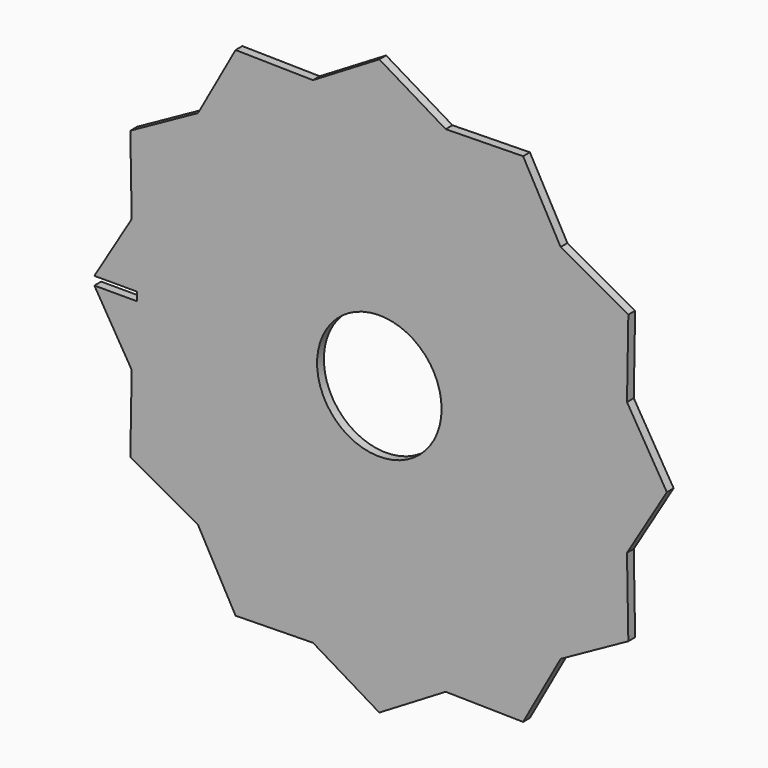
from build123d import *

# Parameters (mm, degrees)
F0_R     = 22
F1_DEPTH = 3
F2_DEPTH = 3
F4_DEPTH = 25


with BuildPart() as f1:
    # F0 (on Front) → F1 (new body)
    with BuildSketch(Plane.XZ):
        Polygon((0, 101.624342229), (-23.4537052032, 87.530419444), (-50.8121711145, 88.0092620132), (-64.0767142408, 64.0767142408), (-88.0092620132, 50.8121711145), (-87.530419444, 23.4537052032), (-101.624342229, 0), (-87.530419444, -23.4537052032), (-88.0092620132, -50.8121711145), (-64.0767142408, -64.0767142409), (-50.8121711145, -88.0092620132), (-23.4537052032, -87.530419444), (0, -101.624342229), (23.4537052032, -87.530419444), (50.8121711145, -88.0092620132), (64.0767142409, -64.0767142408), (88.0092620132, -50.8121711145), (87.530419444, -23.4537052032), (101.624342229, 0), (87.530419444, 23.4537052032), (88.0092620132, 50.8121711145), (64.0767142408, 64.0767142408), (50.8121711145, 88.0092620132), (23.4537052032, 87.530419444), align=None)
        Circle(F0_R, mode=Mode.SUBTRACT)
    extrude(amount=F1_DEPTH)

    # F0 (on Front) → F2 (join)
    with BuildSketch(Plane.XZ):
        Polygon((0, 101.624342229), (-23.4537052032, 87.530419444), (-50.8121711145, 88.0092620132), (-64.0767142408, 64.0767142408), (-88.0092620132, 50.8121711145), (-87.530419444, 23.4537052032), (-101.624342229, 0), (-87.530419444, -23.4537052032), (-88.0092620132, -50.8121711145), (-64.0767142408, -64.0767142409), (-50.8121711145, -88.0092620132), (-23.4537052032, -87.530419444), (0, -101.624342229), (23.4537052032, -87.530419444), (50.8121711145, -88.0092620132), (64.0767142409, -64.0767142408), (88.0092620132, -50.8121711145), (87.530419444, -23.4537052032), (101.624342229, 0), (87.530419444, 23.4537052032), (88.0092620132, 50.8121711145), (64.0767142408, 64.0767142408), (50.8121711145, 88.0092620132), (23.4537052032, 87.530419444), align=None)
        Circle(F0_R, mode=Mode.SUBTRACT)
    extrude(amount=F2_DEPTH)

    # F3 (on face) → F4 (cut)
    with BuildSketch(Plane.XZ.offset(3)):
        Polygon((-85.7229544101, -1.5), (-85.7229544101, 1.5), (-100.7229544101, 1.5), (-100.7229544101, 14.0027841553), (-117.494545877, 14.0027841553), (-117.494545877, -1.5), (-100.7229544101, -1.5), align=None)
    extrude(amount=-F4_DEPTH, mode=Mode.SUBTRACT)


solid = f1.part
